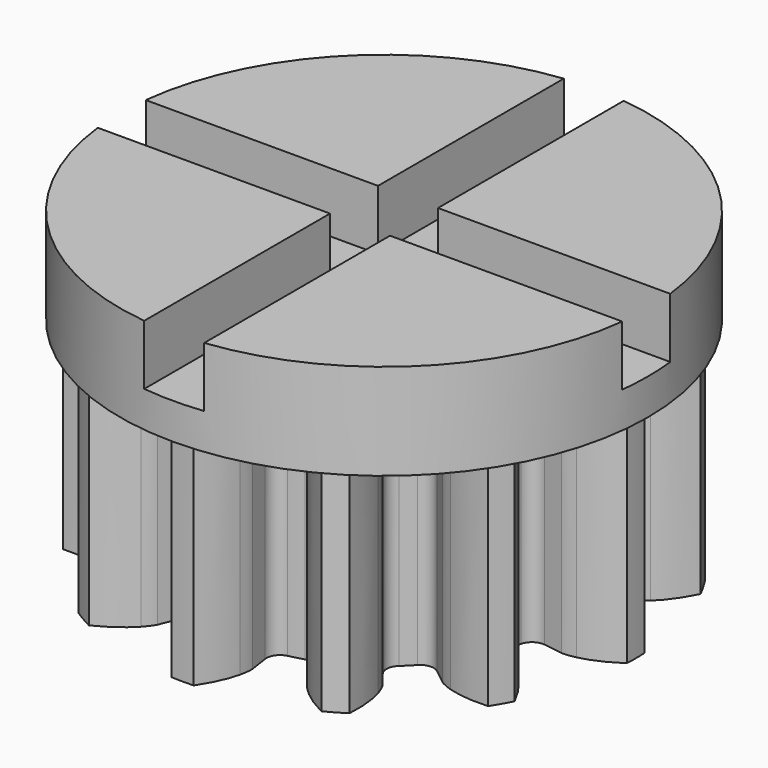
from build123d import *

# Parameters (mm, degrees)
PAD001_DEPTH    = 9
SKETCH_R        = 11
PAD_DEPTH       = 4
SKETCH001_R     = 1.7
POCKET_DEPTH    = 13.001
POCKET001_DEPTH = 2.5
SKETCH003_R     = 4
POCKET002_DEPTH = 3
CHAMFER_SIZE    = 2
SKETCH004_R     = 6
POCKET003_DEPTH = 1.5


with BuildPart() as part:
    # InvoluteGear → Pad001 (new body)
    with BuildSketch(Plane.XY):
        with BuildLine():
            Line((7.585543, -1.113908), (8.391342, -1.230997))
            add(Edge.make_bspline(
                [(8.391342, -1.230997), (8.453372, -1.235413), (8.639606, -1.239539), (8.952693, -1.168255)],
                knots=[0, 0, 0, 0, 1, 1, 1, 1], degree=3))
            add(Edge.make_bspline(
                [(8.952693, -1.168255), (9.32537, -1.081215), (9.856035, -0.88794), (10.49177, -0.464635)],
                knots=[0, 0, 0, 0, 1, 1, 1, 1], degree=3))
            ThreePointArc((10.49177, -0.464635), (10.502056, 0), (10.49177, 0.464635))
            add(Edge.make_bspline(
                [(10.49177, 0.464635), (9.856035, 0.88794), (9.32537, 1.081215), (8.952693, 1.168255)],
                knots=[0, 0, 0, 0, 1, 1, 1, 1], degree=3))
            add(Edge.make_bspline(
                [(8.952693, 1.168255), (8.639606, 1.239539), (8.453372, 1.235413), (8.391342, 1.230997)],
                knots=[0, 0, 0, 0, 1, 1, 1, 1], degree=3))
            Line((8.391342, 1.230997), (7.585543, 1.113908))
            ThreePointArc((7.585543, 1.113908), (7.1854, 1.20674), (6.955061, 1.546852))
            ThreePointArc((6.955061, 1.546852), (6.882222, 1.844086), (6.796685, 2.137918))
            ThreePointArc((6.796685, 2.137918), (6.826109, 2.547633), (7.126227, 2.828099))
            Line((7.126227, 2.828099), (7.882613, 3.129596))
            add(Edge.make_bspline(
                [(7.882613, 3.129596), (7.938542, 3.156787), (8.101888, 3.246331), (8.337387, 3.464608)],
                knots=[0, 0, 0, 0, 1, 1, 1, 1], degree=3))
            add(Edge.make_bspline(
                [(8.337387, 3.464608), (8.616615, 3.726326), (8.979547, 4.159039), (9.318457, 4.8435)],
                knots=[0, 0, 0, 0, 1, 1, 1, 1], degree=3))
            ThreePointArc((9.318457, 4.8435), (9.095047, 5.251028), (8.853822, 5.648271))
            add(Edge.make_bspline(
                [(8.853822, 5.648271), (8.091607, 5.696996), (7.5354, 5.599044), (7.169132, 5.488085)],
                knots=[0, 0, 0, 0, 1, 1, 1, 1], degree=3))
            add(Edge.make_bspline(
                [(7.169132, 5.488085), (6.862349, 5.393276), (6.703128, 5.296585), (6.651617, 5.261745)],
                knots=[0, 0, 0, 0, 1, 1, 1, 1], degree=3))
            Line((6.651617, 5.261745), (6.012319, 4.757444))
            ThreePointArc((6.012319, 4.757444), (5.619369, 4.637767), (5.249834, 4.817143))
            ThreePointArc((5.249834, 4.817143), (5.038136, 5.038136), (4.817143, 5.249834))
            ThreePointArc((4.817143, 5.249834), (4.637767, 5.619369), (4.757444, 6.012319))
            Line((4.757444, 6.012319), (5.261745, 6.651617))
            add(Edge.make_bspline(
                [(5.261745, 6.651617), (5.296585, 6.703128), (5.393276, 6.862349), (5.488085, 7.169132)],
                knots=[0, 0, 0, 0, 1, 1, 1, 1], degree=3))
            add(Edge.make_bspline(
                [(5.488085, 7.169132), (5.599044, 7.5354), (5.696996, 8.091607), (5.648271, 8.853822)],
                knots=[0, 0, 0, 0, 1, 1, 1, 1], degree=3))
            ThreePointArc((5.648271, 8.853822), (5.251028, 9.095047), (4.8435, 9.318457))
            add(Edge.make_bspline(
                [(4.8435, 9.318457), (4.159039, 8.979547), (3.726326, 8.616615), (3.464608, 8.337387)],
                knots=[0, 0, 0, 0, 1, 1, 1, 1], degree=3))
            add(Edge.make_bspline(
                [(3.464608, 8.337387), (3.246331, 8.101888), (3.156787, 7.938542), (3.129596, 7.882613)],
                knots=[0, 0, 0, 0, 1, 1, 1, 1], degree=3))
            Line((3.129596, 7.882613), (2.828099, 7.126227))
            ThreePointArc((2.828099, 7.126227), (2.547633, 6.826109), (2.137918, 6.796685))
            ThreePointArc((2.137918, 6.796685), (1.844086, 6.882222), (1.546852, 6.955061))
            ThreePointArc((1.546852, 6.955061), (1.20674, 7.1854), (1.113908, 7.585543))
            Line((1.113908, 7.585543), (1.230997, 8.391342))
            add(Edge.make_bspline(
                [(1.230997, 8.391342), (1.235413, 8.453372), (1.239539, 8.639606), (1.168255, 8.952693)],
                knots=[0, 0, 0, 0, 1, 1, 1, 1], degree=3))
            add(Edge.make_bspline(
                [(1.168255, 8.952693), (1.081215, 9.32537), (0.88794, 9.856035), (0.464635, 10.49177)],
                knots=[0, 0, 0, 0, 1, 1, 1, 1], degree=3))
            ThreePointArc((0.464635, 10.49177), (0, 10.502056), (-0.464635, 10.49177))
            add(Edge.make_bspline(
                [(-0.464635, 10.49177), (-0.88794, 9.856035), (-1.081215, 9.32537), (-1.168255, 8.952693)],
                knots=[0, 0, 0, 0, 1, 1, 1, 1], degree=3))
            add(Edge.make_bspline(
                [(-1.168255, 8.952693), (-1.239539, 8.639606), (-1.235413, 8.453372), (-1.230997, 8.391342)],
                knots=[0, 0, 0, 0, 1, 1, 1, 1], degree=3))
            Line((-1.230997, 8.391342), (-1.113908, 7.585543))
            ThreePointArc((-1.113908, 7.585543), (-1.20674, 7.1854), (-1.546852, 6.955061))
            ThreePointArc((-1.546852, 6.955061), (-1.844086, 6.882222), (-2.137918, 6.796685))
            ThreePointArc((-2.137918, 6.796685), (-2.547633, 6.826109), (-2.828099, 7.126227))
            Line((-2.828099, 7.126227), (-3.129596, 7.882613))
            add(Edge.make_bspline(
                [(-3.129596, 7.882613), (-3.156787, 7.938542), (-3.246331, 8.101888), (-3.464608, 8.337387)],
                knots=[0, 0, 0, 0, 1, 1, 1, 1], degree=3))
            add(Edge.make_bspline(
                [(-3.464608, 8.337387), (-3.726326, 8.616615), (-4.159039, 8.979547), (-4.8435, 9.318457)],
                knots=[0, 0, 0, 0, 1, 1, 1, 1], degree=3))
            ThreePointArc((-4.8435, 9.318457), (-5.251028, 9.095047), (-5.648271, 8.853822))
            add(Edge.make_bspline(
                [(-5.648271, 8.853822), (-5.696996, 8.091607), (-5.599044, 7.5354), (-5.488085, 7.169132)],
                knots=[0, 0, 0, 0, 1, 1, 1, 1], degree=3))
            add(Edge.make_bspline(
                [(-5.488085, 7.169132), (-5.393276, 6.862349), (-5.296585, 6.703128), (-5.261745, 6.651617)],
                knots=[0, 0, 0, 0, 1, 1, 1, 1], degree=3))
            Line((-5.261745, 6.651617), (-4.757444, 6.012319))
            ThreePointArc((-4.757444, 6.012319), (-4.637767, 5.619369), (-4.817143, 5.249834))
            ThreePointArc((-4.817143, 5.249834), (-5.038136, 5.038136), (-5.249834, 4.817143))
            ThreePointArc((-5.249834, 4.817143), (-5.619369, 4.637767), (-6.012319, 4.757444))
            Line((-6.012319, 4.757444), (-6.651617, 5.261745))
            add(Edge.make_bspline(
                [(-6.651617, 5.261745), (-6.703128, 5.296585), (-6.862349, 5.393276), (-7.169132, 5.488085)],
                knots=[0, 0, 0, 0, 1, 1, 1, 1], degree=3))
            add(Edge.make_bspline(
                [(-7.169132, 5.488085), (-7.5354, 5.599044), (-8.091607, 5.696996), (-8.853822, 5.648271)],
                knots=[0, 0, 0, 0, 1, 1, 1, 1], degree=3))
            ThreePointArc((-8.853822, 5.648271), (-9.095047, 5.251028), (-9.318457, 4.8435))
            add(Edge.make_bspline(
                [(-9.318457, 4.8435), (-8.979547, 4.159039), (-8.616615, 3.726326), (-8.337387, 3.464608)],
                knots=[0, 0, 0, 0, 1, 1, 1, 1], degree=3))
            add(Edge.make_bspline(
                [(-8.337387, 3.464608), (-8.101888, 3.246331), (-7.938542, 3.156787), (-7.882613, 3.129596)],
                knots=[0, 0, 0, 0, 1, 1, 1, 1], degree=3))
            Line((-7.882613, 3.129596), (-7.126227, 2.828099))
            ThreePointArc((-7.126227, 2.828099), (-6.826109, 2.547633), (-6.796685, 2.137918))
            ThreePointArc((-6.796685, 2.137918), (-6.882222, 1.844086), (-6.955061, 1.546852))
            ThreePointArc((-6.955061, 1.546852), (-7.1854, 1.20674), (-7.585543, 1.113908))
            Line((-7.585543, 1.113908), (-8.391342, 1.230997))
            add(Edge.make_bspline(
                [(-8.391342, 1.230997), (-8.453372, 1.235413), (-8.639606, 1.239539), (-8.952693, 1.168255)],
                knots=[0, 0, 0, 0, 1, 1, 1, 1], degree=3))
            add(Edge.make_bspline(
                [(-8.952693, 1.168255), (-9.32537, 1.081215), (-9.856035, 0.88794), (-10.49177, 0.464635)],
                knots=[0, 0, 0, 0, 1, 1, 1, 1], degree=3))
            ThreePointArc((-10.49177, 0.464635), (-10.502056, 0), (-10.49177, -0.464635))
            add(Edge.make_bspline(
                [(-10.49177, -0.464635), (-9.856035, -0.88794), (-9.32537, -1.081215), (-8.952693, -1.168255)],
                knots=[0, 0, 0, 0, 1, 1, 1, 1], degree=3))
            add(Edge.make_bspline(
                [(-8.952693, -1.168255), (-8.639606, -1.239539), (-8.453372, -1.235413), (-8.391342, -1.230997)],
                knots=[0, 0, 0, 0, 1, 1, 1, 1], degree=3))
            Line((-8.391342, -1.230997), (-7.585543, -1.113908))
            ThreePointArc((-7.585543, -1.113908), (-7.1854, -1.20674), (-6.955061, -1.546852))
            ThreePointArc((-6.955061, -1.546852), (-6.882222, -1.844086), (-6.796685, -2.137918))
            ThreePointArc((-6.796685, -2.137918), (-6.826109, -2.547633), (-7.126227, -2.828099))
            Line((-7.126227, -2.828099), (-7.882613, -3.129596))
            add(Edge.make_bspline(
                [(-7.882613, -3.129596), (-7.938542, -3.156787), (-8.101888, -3.246331), (-8.337387, -3.464608)],
                knots=[0, 0, 0, 0, 1, 1, 1, 1], degree=3))
            add(Edge.make_bspline(
                [(-8.337387, -3.464608), (-8.616615, -3.726326), (-8.979547, -4.159039), (-9.318457, -4.8435)],
                knots=[0, 0, 0, 0, 1, 1, 1, 1], degree=3))
            ThreePointArc((-9.318457, -4.8435), (-9.095047, -5.251028), (-8.853822, -5.648271))
            add(Edge.make_bspline(
                [(-8.853822, -5.648271), (-8.091607, -5.696996), (-7.5354, -5.599044), (-7.169132, -5.488085)],
                knots=[0, 0, 0, 0, 1, 1, 1, 1], degree=3))
            add(Edge.make_bspline(
                [(-7.169132, -5.488085), (-6.862349, -5.393276), (-6.703128, -5.296585), (-6.651617, -5.261745)],
                knots=[0, 0, 0, 0, 1, 1, 1, 1], degree=3))
            Line((-6.651617, -5.261745), (-6.012319, -4.757444))
            ThreePointArc((-6.012319, -4.757444), (-5.619369, -4.637767), (-5.249834, -4.817143))
            ThreePointArc((-5.249834, -4.817143), (-5.038136, -5.038136), (-4.817143, -5.249834))
            ThreePointArc((-4.817143, -5.249834), (-4.637767, -5.619369), (-4.757444, -6.012319))
            Line((-4.757444, -6.012319), (-5.261745, -6.651617))
            add(Edge.make_bspline(
                [(-5.261745, -6.651617), (-5.296585, -6.703128), (-5.393276, -6.862349), (-5.488085, -7.169132)],
                knots=[0, 0, 0, 0, 1, 1, 1, 1], degree=3))
            add(Edge.make_bspline(
                [(-5.488085, -7.169132), (-5.599044, -7.5354), (-5.696996, -8.091607), (-5.648271, -8.853822)],
                knots=[0, 0, 0, 0, 1, 1, 1, 1], degree=3))
            ThreePointArc((-5.648271, -8.853822), (-5.251028, -9.095047), (-4.8435, -9.318457))
            add(Edge.make_bspline(
                [(-4.8435, -9.318457), (-4.159039, -8.979547), (-3.726326, -8.616615), (-3.464608, -8.337387)],
                knots=[0, 0, 0, 0, 1, 1, 1, 1], degree=3))
            add(Edge.make_bspline(
                [(-3.464608, -8.337387), (-3.246331, -8.101888), (-3.156787, -7.938542), (-3.129596, -7.882613)],
                knots=[0, 0, 0, 0, 1, 1, 1, 1], degree=3))
            Line((-3.129596, -7.882613), (-2.828099, -7.126227))
            ThreePointArc((-2.828099, -7.126227), (-2.547633, -6.826109), (-2.137918, -6.796685))
            ThreePointArc((-2.137918, -6.796685), (-1.844086, -6.882222), (-1.546852, -6.955061))
            ThreePointArc((-1.546852, -6.955061), (-1.20674, -7.1854), (-1.113908, -7.585543))
            Line((-1.113908, -7.585543), (-1.230997, -8.391342))
            add(Edge.make_bspline(
                [(-1.230997, -8.391342), (-1.235413, -8.453372), (-1.239539, -8.639606), (-1.168255, -8.952693)],
                knots=[0, 0, 0, 0, 1, 1, 1, 1], degree=3))
            add(Edge.make_bspline(
                [(-1.168255, -8.952693), (-1.081215, -9.32537), (-0.88794, -9.856035), (-0.464635, -10.49177)],
                knots=[0, 0, 0, 0, 1, 1, 1, 1], degree=3))
            ThreePointArc((-0.464635, -10.49177), (0, -10.502056), (0.464635, -10.49177))
            add(Edge.make_bspline(
                [(0.464635, -10.49177), (0.88794, -9.856035), (1.081215, -9.32537), (1.168255, -8.952693)],
                knots=[0, 0, 0, 0, 1, 1, 1, 1], degree=3))
            add(Edge.make_bspline(
                [(1.168255, -8.952693), (1.239539, -8.639606), (1.235413, -8.453372), (1.230997, -8.391342)],
                knots=[0, 0, 0, 0, 1, 1, 1, 1], degree=3))
            Line((1.230997, -8.391342), (1.113908, -7.585543))
            ThreePointArc((1.113908, -7.585543), (1.20674, -7.1854), (1.546852, -6.955061))
            ThreePointArc((1.546852, -6.955061), (1.844086, -6.882222), (2.137918, -6.796685))
            ThreePointArc((2.137918, -6.796685), (2.547633, -6.826109), (2.828099, -7.126227))
            Line((2.828099, -7.126227), (3.129596, -7.882613))
            add(Edge.make_bspline(
                [(3.129596, -7.882613), (3.156787, -7.938542), (3.246331, -8.101888), (3.464608, -8.337387)],
                knots=[0, 0, 0, 0, 1, 1, 1, 1], degree=3))
            add(Edge.make_bspline(
                [(3.464608, -8.337387), (3.726326, -8.616615), (4.159039, -8.979547), (4.8435, -9.318457)],
                knots=[0, 0, 0, 0, 1, 1, 1, 1], degree=3))
            ThreePointArc((4.8435, -9.318457), (5.251028, -9.095047), (5.648271, -8.853822))
            add(Edge.make_bspline(
                [(5.648271, -8.853822), (5.696996, -8.091607), (5.599044, -7.5354), (5.488085, -7.169132)],
                knots=[0, 0, 0, 0, 1, 1, 1, 1], degree=3))
            add(Edge.make_bspline(
                [(5.488085, -7.169132), (5.393276, -6.862349), (5.296585, -6.703128), (5.261745, -6.651617)],
                knots=[0, 0, 0, 0, 1, 1, 1, 1], degree=3))
            Line((5.261745, -6.651617), (4.757444, -6.012319))
            ThreePointArc((4.757444, -6.012319), (4.637767, -5.619369), (4.817143, -5.249834))
            ThreePointArc((4.817143, -5.249834), (5.038136, -5.038136), (5.249834, -4.817143))
            ThreePointArc((5.249834, -4.817143), (5.619369, -4.637767), (6.012319, -4.757444))
            Line((6.012319, -4.757444), (6.651617, -5.261745))
            add(Edge.make_bspline(
                [(6.651617, -5.261745), (6.703128, -5.296585), (6.862349, -5.393276), (7.169132, -5.488085)],
                knots=[0, 0, 0, 0, 1, 1, 1, 1], degree=3))
            add(Edge.make_bspline(
                [(7.169132, -5.488085), (7.5354, -5.599044), (8.091607, -5.696996), (8.853822, -5.648271)],
                knots=[0, 0, 0, 0, 1, 1, 1, 1], degree=3))
            ThreePointArc((8.853822, -5.648271), (9.095047, -5.251028), (9.318457, -4.8435))
            add(Edge.make_bspline(
                [(9.318457, -4.8435), (8.979547, -4.159039), (8.616615, -3.726326), (8.337387, -3.464608)],
                knots=[0, 0, 0, 0, 1, 1, 1, 1], degree=3))
            add(Edge.make_bspline(
                [(8.337387, -3.464608), (8.101888, -3.246331), (7.938542, -3.156787), (7.882613, -3.129596)],
                knots=[0, 0, 0, 0, 1, 1, 1, 1], degree=3))
            Line((7.882613, -3.129596), (7.126227, -2.828099))
            ThreePointArc((7.126227, -2.828099), (6.826109, -2.547633), (6.796685, -2.137918))
            ThreePointArc((6.796685, -2.137918), (6.882222, -1.844086), (6.955061, -1.546852))
            ThreePointArc((6.955061, -1.546852), (7.1854, -1.20674), (7.585543, -1.113908))
        make_face()
    extrude(amount=-PAD001_DEPTH)

    # Sketch → Pad (new body)
    with BuildSketch(Plane.XY):
        Circle(SKETCH_R)
    extrude(amount=PAD_DEPTH)

    # Sketch001 → Pocket (cut, through all)
    with BuildSketch(Plane(origin=(0, 0, -9), x_dir=(1, 0, 0), z_dir=(0, 0, -1))):
        Circle(SKETCH001_R)
    extrude(amount=-POCKET_DEPTH, mode=Mode.SUBTRACT)

    # Sketch002 → Pocket001 (cut)
    with BuildSketch(Plane.XY.offset(4)):
        Polygon((-14.947826, 1.25), (-1.25, 1.25), (-1.25, 14.947826), (1.25, 14.947826), (1.25, 1.25), (14.947826, 1.25), (14.947826, -1.25), (1.25, -1.25), (1.25, -14.947826), (-1.25, -14.947826), (-1.25, -1.25), (-14.947826, -1.25), align=None)
    extrude(amount=-POCKET001_DEPTH, mode=Mode.SUBTRACT)

    # Sketch003 → Pocket002 (cut)
    with BuildSketch(Plane(origin=(0, 0, -9), x_dir=(1, 0, 0), z_dir=(0, 0, -1))):
        Circle(SKETCH003_R)
    extrude(amount=-POCKET002_DEPTH, mode=Mode.SUBTRACT)

    # Chamfer
    chamfer_edges = [part.edges().sort_by_distance(p)[0] for p in [
        (-1.7, 0, -6),
    ]]
    chamfer(chamfer_edges, length=CHAMFER_SIZE)

    # Sketch004 → Pocket003 (cut)
    with BuildSketch(Plane(origin=(0, 0, -9), x_dir=(1, 0, 0), z_dir=(0, 0, -1))):
        Circle(SKETCH004_R)
    extrude(amount=-POCKET003_DEPTH, mode=Mode.SUBTRACT)


solid = part.part
